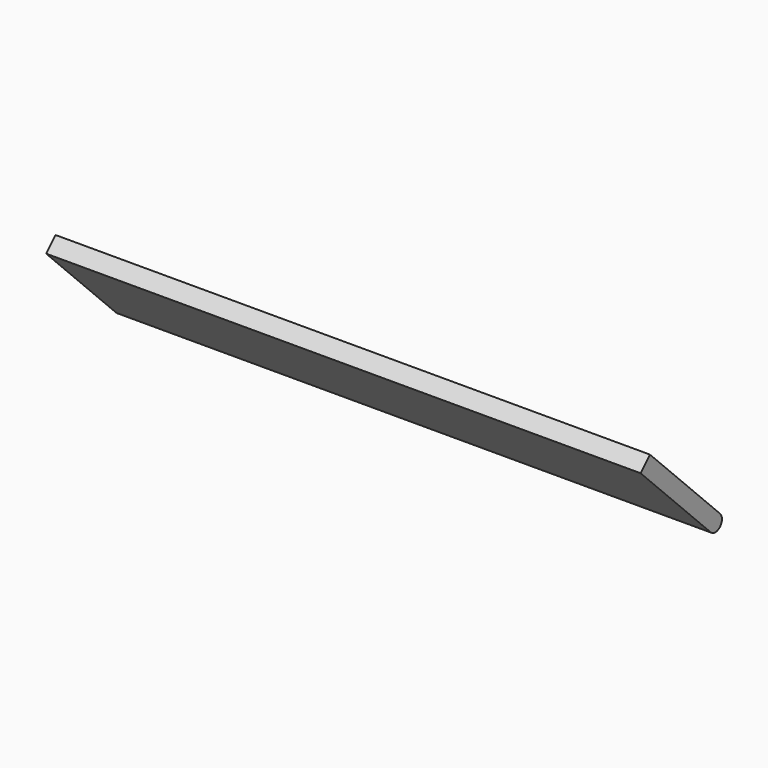
from build123d import *

# Parameters (mm, degrees)
F1_DEPTH = 228.6


with BuildPart() as f1:
    # F0 (on Right) → F1 (new body)
    with BuildSketch(Plane.YZ):
        with BuildLine():
            Line((4.490128, 4.490128), (0, 0))
            Line((0, 0), (33.67596, -33.67596))
            ThreePointArc((33.67596, -33.67596), (35.921024, -34.605896), (38.166089, -33.67596))
            ThreePointArc((38.166089, -33.67596), (39.096024, -31.430896), (38.166089, -29.185832))
            Line((38.166089, -29.185832), (4.490128, 4.490128))
        make_face()
    extrude(amount=-F1_DEPTH)


solid = f1.part
